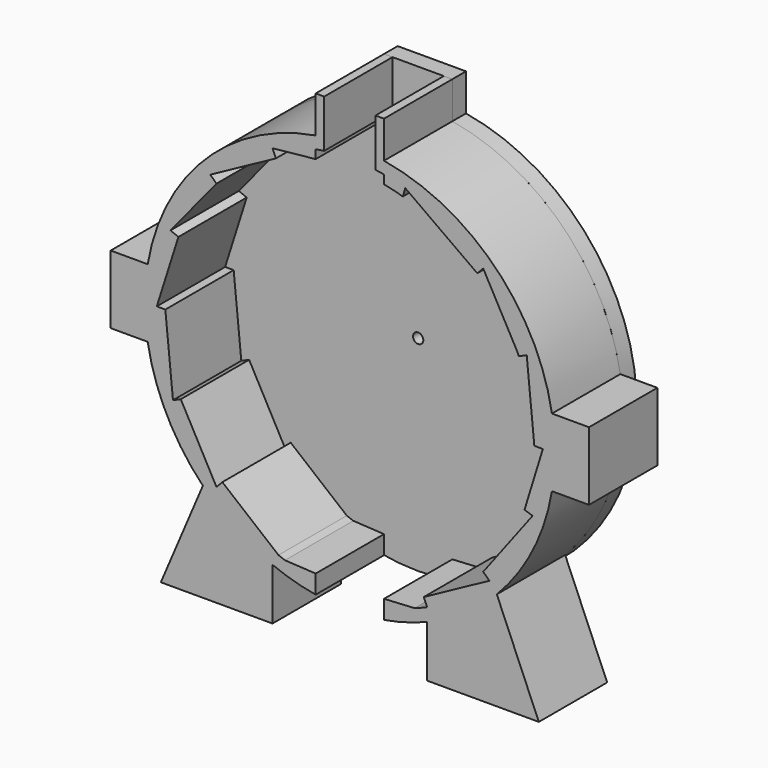
from build123d import *

# Parameters (mm, degrees)
F1_DEPTH = 25
F2_R     = 1.5
F3_DEPTH = 5


with BuildPart() as f1:
    # F0 (on Front) → F1 (new body)
    with BuildSketch(Plane.XZ):
        with BuildLine():
            ThreePointArc((-18.985607, -53.214629), (-19.936602, -52.865697), (-20.881189, -52.499771))
            Line((-20.881189, -52.499771), (-37.308637, -39.039283))
            Line((-37.308637, -39.039283), (-39.035889, -40.846657))
            Line((-39.035889, -40.846657), (-49.477404, -21.632995))
            Line((-49.477404, -21.632995), (-51.768025, -22.634522))
            Line((-51.768025, -22.634522), (-54, 0))
            Line((-54, 0), (-56.5, 0))
            Line((-56.5, 0), (-50.176772, 19.957242))
            Line((-50.176772, 19.957242), (-52.499771, 20.881189))
            Line((-52.499771, 20.881189), (-39.039283, 37.308637))
            Line((-39.039283, 37.308637), (-40.846657, 39.035889))
            Line((-40.846657, 39.035889), (-21.632995, 49.477404))
            Line((-21.632995, 49.477404), (-22.634522, 51.768025))
            Line((-22.634522, 51.768025), (-10, 53.065997))
            Line((-10, 53.065997), (-10, 55.608003))
            ThreePointArc((-10, 55.608003), (-8.752195, 55.818), (-7.5, 56))
            Line((-7.5, 56), (-7.5, 70))
            Line((-7.5, 70), (-10, 70))
            Line((-10, 70), (-10, 59.160798))
            ThreePointArc((-10, 59.160798), (-42.426407, 42.426407), (-59.160798, 10))
            Line((-59.160798, 10), (-70.00304, 10))
            Line((-70.00304, 10), (-70.00304, 0))
            Line((-70.00304, 0), (-70.00304, -10))
            Line((-70.00304, -10), (-59.160798, -10))
            ThreePointArc((-59.160798, -10), (-53.511005, -27.139866), (-43.020024, -41.824365))
            Line((-43.020024, -41.824365), (-55.318233, -70.705712))
            Line((-55.318233, -70.705712), (-22.634522, -70.705712))
            Line((-22.634522, -70.705712), (-22.634522, -55.566882))
            ThreePointArc((-22.634522, -55.566882), (-16.415909, -57.71064), (-10, -59.160798))
            Line((-10, -59.160798), (-10, -53.714298))
            Line((-10, -53.714298), (-18.985607, -53.214629))
        make_face()
        with BuildLine():
            Line((18.985607, -53.214629), (10, -53.714298))
            Line((10, -53.714298), (10, -59.160798))
            ThreePointArc((10, -59.160798), (16.415909, -57.71064), (22.634522, -55.566882))
            Line((22.634522, -55.566882), (22.634522, -70.705712))
            Line((22.634522, -70.705712), (55.318233, -70.705712))
            Line((55.318233, -70.705712), (43.020024, -41.824365))
            ThreePointArc((43.020024, -41.824365), (53.511005, -27.139866), (59.160798, -10))
            Line((59.160798, -10), (70.00304, -10))
            Line((70.00304, -10), (70.00304, 0))
            Line((70.00304, 0), (70.00304, 10))
            Line((70.00304, 10), (59.160798, 10))
            ThreePointArc((59.160798, 10), (42.426407, 42.426407), (10, 59.160798))
            Line((10, 59.160798), (10, 70))
            Line((10, 70), (7.5, 70))
            Line((7.5, 70), (7.5, 56))
            ThreePointArc((7.5, 56), (8.752195, 55.818), (10, 55.608003))
            Line((10, 55.608003), (10, 53.065997))
            ThreePointArc((10, 53.065997), (12.772691, 52.467689), (15.51014, 51.724613))
            Line((15.51014, 51.724613), (16.228202, 54.119271))
            Line((16.228202, 54.119271), (37.308637, 39.039283))
            Line((37.308637, 39.039283), (39.035889, 40.846657))
            Line((39.035889, 40.846657), (49.027323, 22.634522))
            ThreePointArc((49.027323, 22.634522), (49.254909, 22.134902), (49.477404, 21.632995))
            Line((49.477404, 21.632995), (51.768025, 22.634522))
            Line((51.768025, 22.634522), (54, 0))
            Line((54, 0), (56.5, 0))
            Line((56.5, 0), (52.018594, -14.493648))
            ThreePointArc((52.018594, -14.493648), (51.590185, -15.951577), (51.120923, -17.396874))
            Line((51.120923, -17.396874), (53.487632, -18.202285))
            Line((53.487632, -18.202285), (39.039283, -37.308637))
            Line((39.039283, -37.308637), (40.846657, -39.035889))
            Line((40.846657, -39.035889), (21.632995, -49.477404))
            Line((21.632995, -49.477404), (22.634522, -51.768025))
            ThreePointArc((22.634522, -51.768025), (20.822631, -52.523024), (18.985607, -53.214629))
        make_face()
    extrude(amount=F1_DEPTH)


with BuildPart() as f3:
    # F2 (on Front) → F3 (new body)
    with BuildSketch(Plane.XZ):
        with BuildLine():
            Line((-10, 70), (-10, 59.160798))
            ThreePointArc((-10, 59.160798), (0, -60), (10, 59.160798))
            Line((10, 59.160798), (10, 70))
            Line((10, 70), (0, 70))
            Line((0, 70), (-10, 70))
        make_face()
        Circle(F2_R, mode=Mode.SUBTRACT)
    extrude(amount=-F3_DEPTH)


solid = Compound([f1.part, f3.part])
